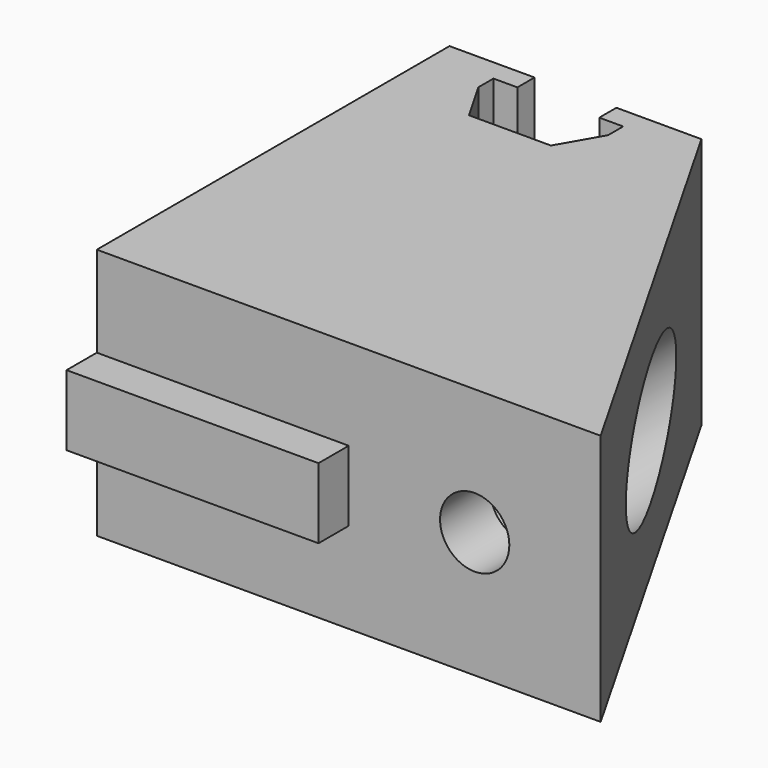
from build123d import *

# Parameters (mm, degrees)
F1_DEPTH = 20
F2_R     = 2.75
F3_DEPTH = 25
F2_R_2   = 5
F4_DEPTH = 28.4
F5_DEPTH = 5
F2_W     = 20
F2_H     = 5.6
F6_DEPTH = 3


with BuildPart() as f1:
    # F0 (on Top) → F1 (new body)
    with BuildSketch(Plane.XY):
        Polygon((-3.25, 17.5), (-10, 17.5), (-10, -17.5), (10, -17.5), (10, 17.5), (3.25, 17.5), (3.25, 15.8), (5.15, 15.8), (5.15, 14.3), (3.25, 11), (-3.25, 11), (-5.15, 14.3), (-5.15, 15.8), (-3.25, 15.8), align=None)
        Polygon((10, 17.5), (10, -17.5), (30, -17.5), align=None)
    extrude(amount=F1_DEPTH)

    # F2 (on face) → F3 (cut)
    with BuildSketch(Plane.XZ.offset(17.5)):
        with Locations((20, 10)):
            Circle(F2_R)
    extrude(amount=-F3_DEPTH, mode=Mode.SUBTRACT)

    # F2 (on face) → F4 (cut)
    with BuildSketch(Plane.XZ.offset(17.5)):
        with Locations((20, 10)):
            Circle(F2_R_2)
        with Locations((20, 10)):
            Circle(F2_R, mode=Mode.SUBTRACT)
    extrude(amount=-F4_DEPTH, mode=Mode.SUBTRACT)

    # F2 (on face) → F5 (join)
    with BuildSketch(Plane.XZ.offset(17.5)):
        with Locations((20, 10)):
            Circle(F2_R_2)
        with Locations((20, 10)):
            Circle(F2_R, mode=Mode.SUBTRACT)
    extrude(amount=-F5_DEPTH)

    # F2 (on face) → F6 (join)
    with BuildSketch(Plane.XZ.offset(17.5)):
        with Locations((0, 10)):
            Rectangle(F2_W, F2_H)
    extrude(amount=F6_DEPTH)


solid = f1.part
